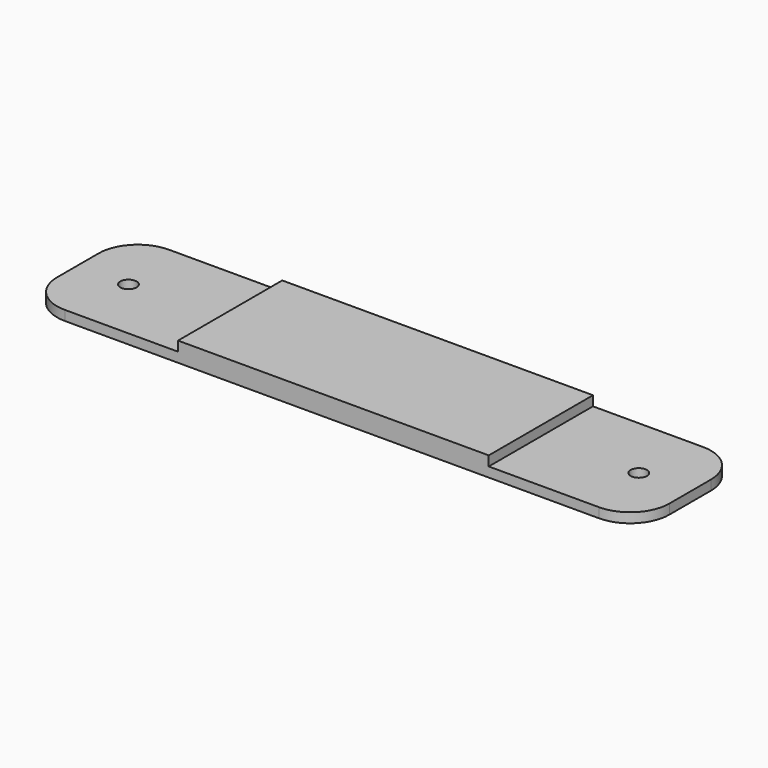
from build123d import *

# Parameters (mm, degrees)
SKETCH004_W      = 94
SKETCH004_H      = 20
EXTRUDE001_DEPTH = 3
SKETCH005_R      = 1.25
HOLE001_DEPTH    = 3
FILLET001_R      = 6
SKETCH006_W      = 23.4
SKETCH006_H      = 21
POCKET002_DEPTH  = 1.5
SKETCH007_W      = 23.4
SKETCH007_H      = 21
POCKET003_DEPTH  = 1.5


with BuildPart() as part:
    # Sketch004 → Extrude001 (new body)
    with BuildSketch(Plane.XY):
        with Locations((0.620003, 10.899999)):
            Rectangle(SKETCH004_W, SKETCH004_H)
    extrude(amount=EXTRUDE001_DEPTH)

    # Sketch005 (on Face6 of BaseFeature001) → Hole001 (cut)
    with BuildSketch(Plane.XY.offset(3)):
        with Locations((-38.549999, 10.83)):
            Circle(SKETCH005_R)
        with Locations((39.800001, 10.823599)):
            Circle(SKETCH005_R)
    extrude(amount=-HOLE001_DEPTH, mode=Mode.SUBTRACT)

    # Fillet001
    fillet001_edges = [part.edges().sort_by_distance(p)[0] for p in [
        (-46.379997, 0.899999, 1.5),
        (-46.379997, 20.899999, 1.5),
        (47.620003, 20.899999, 1.5),
        (47.620003, 0.899999, 1.5),
    ]]
    fillet(fillet001_edges, radius=FILLET001_R)

    # Sketch006 (on Face5 of Fillet001) → Pocket002 (cut)
    with BuildSketch(Plane.XY.offset(3)):
        with Locations((-34.701599, 10.700001)):
            Rectangle(SKETCH006_W, SKETCH006_H)
    extrude(amount=-POCKET002_DEPTH, mode=Mode.SUBTRACT)

    # Sketch007 (on Face4 of Pocket002) → Pocket003 (cut)
    with BuildSketch(Plane.XY.offset(3)):
        with Locations((36.4, 10.699637)):
            Rectangle(SKETCH007_W, SKETCH007_H)
    extrude(amount=-POCKET003_DEPTH, mode=Mode.SUBTRACT)


solid = part.part
